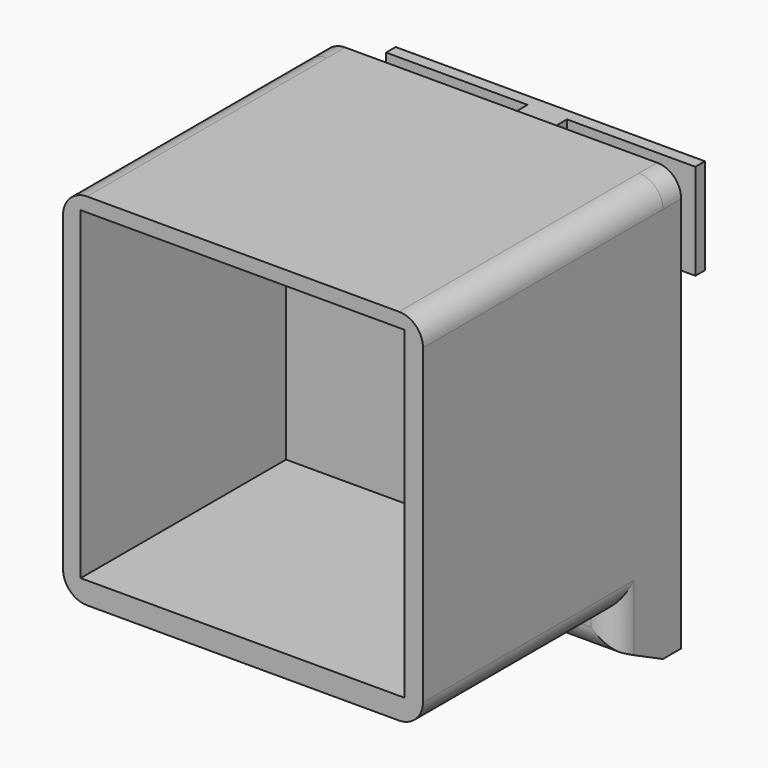
from build123d import *

# Parameters (mm, degrees)
F0_W      = 76.2
F0_H      = 76.2
F1_DEPTH  = 63.5
F2_W      = 68.58
F2_H      = 68.58
F3_DEPTH  = 54.356
F4_W      = 76.2
F4_H      = 12.7
F5_DEPTH  = 12.7
F7_DEPTH  = 81.788
F8_R      = 5.08
F9_W      = 66.04
F9_H      = 20.32
F10_DEPTH = 25.4
F12_DEPTH = 25.4
F13_W     = 8.3356503789
F13_H     = 20.32
F14_DEPTH = 17.78
F15_W     = 2.54
F15_H     = 20.32
F16_DEPTH = 27.178
F17_W     = 2.54
F17_H     = 20.32
F18_DEPTH = 29.972
F20_DEPTH = 4.826


with BuildPart() as f1:
    # F0 (on Front) → F1 (new body)
    with BuildSketch(Plane.XZ):
        with Locations((-1.4287489414, -3.7570823967)):
            Rectangle(F0_W, F0_H)
    extrude(amount=F1_DEPTH)

    # F2 (on face) → F3 (cut)
    with BuildSketch(Plane.XZ.offset(63.5)):
        with Locations((-1.5081233764, -2.9368781066)):
            Rectangle(F2_W, F2_H)
    extrude(amount=-F3_DEPTH, mode=Mode.SUBTRACT)

    # F4 (on face) → F5 (join)
    with BuildSketch(Plane(origin=(0, 0, -41.8570823967), x_dir=(1, 0, 0), z_dir=(0, 0, -1))):
        with Locations((-1.4287489414, 6.35)):
            Rectangle(F4_W, F4_H)
    extrude(amount=F5_DEPTH)

    # F6 (on face) → F7 (cut)
    with BuildSketch(Plane(origin=(-39.5287489414, 0, 0), x_dir=(0, -1, 0), z_dir=(-1, 0, 0))):
        Polygon((12.7, -48.2070823967), (0, -54.5570823967), (12.7, -54.5570823967), align=None)
    extrude(amount=-F7_DEPTH, mode=Mode.SUBTRACT)

    # F8
    f8_edges = [f1.edges().sort_by_distance(p)[0] for p in [
        (-39.528749, -38.1, -41.857082),
        (36.671251, -38.1, -41.857082),
        (-1.428749, -12.7, -48.207082),
        (-39.528749, -12.7, -45.032082),
        (36.671251, -12.7, -45.032082),
        (36.671251, -31.75, 34.342918),
        (-39.528749, -31.75, 34.342918),
    ]]
    fillet(f8_edges, radius=F8_R)

    # F9 (on face) → F10 (cut)
    with BuildSketch(Plane(origin=(0, 0, 0), x_dir=(-1, 0, 0), z_dir=(0, 1, 0))):
        with Locations((1.4287489414, 19.1029176033)):
            Rectangle(F9_W, F9_H)
    extrude(amount=-F10_DEPTH, mode=Mode.SUBTRACT)

    # F11 (on face) → F12 (join)
    with BuildSketch(Plane(origin=(0, 0, 29.2629176033), x_dir=(1, 0, 0), z_dir=(0, 0, -1))):
        Polygon((4.1656, 9.144), (-4.1700503789, 9.144), (-4.1700503789, 0), (0, 0), (4.1656, 0), align=None)
    extrude(amount=F12_DEPTH)

    # F13 (on face) → F14 (join)
    with BuildSketch(Plane(origin=(0, 0, 0), x_dir=(-1, 0, 0), z_dir=(0, 1, 0))):
        with Locations((0.0022251894, 19.1029176033)):
            Rectangle(F13_W, F13_H)
    extrude(amount=F14_DEPTH)

    # F15 (on face) → F16 (join)
    with BuildSketch(Plane.YZ.offset(4.1656)):
        with Locations((16.51, 19.1029176033)):
            Rectangle(F15_W, F15_H)
    extrude(amount=F16_DEPTH)

    # F17 (on face) → F18 (join)
    with BuildSketch(Plane(origin=(-4.1700503789, 0, 0), x_dir=(0, -1, 0), z_dir=(-1, 0, 0))):
        with Locations((-16.51, 19.1029176033)):
            Rectangle(F17_W, F17_H)
    extrude(amount=F18_DEPTH)

    # F19 (on face) → F20 (join)
    with BuildSketch(Plane(origin=(0, 0, 0), x_dir=(-1, 0, 0), z_dir=(0, 1, 0))):
        with BuildLine():
            ThreePointArc((39.5287489414, 29.2629176033), (38.0408513898, 32.8550200517), (34.4487489414, 34.3429176033))
            Line((34.4487489414, 34.3429176033), (-31.5912510586, 34.3429176033))
            ThreePointArc((-31.5912510586, 34.3429176033), (-35.183353507, 32.8550200517), (-36.6712510586, 29.2629176033))
            Line((-36.6712510586, 29.2629176033), (-36.6712510586, -54.5570823967))
            Line((-36.6712510586, -54.5570823967), (39.5287489414, -54.5570823967))
            Line((39.5287489414, -54.5570823967), (39.5287489414, 29.2629176033))
        make_face()
        Polygon((34.4487489414, 29.2629176033), (34.4487489414, 8.9429176033), (4.1700503789, 8.9429176033), (-4.1656, 8.9429176033), (-31.5912510586, 8.9429176033), (-31.5912510586, 29.2629176033), (-4.1656, 29.2629176033), (4.1700503789, 29.2629176033), align=None, mode=Mode.SUBTRACT)
    extrude(amount=F20_DEPTH)


solid = f1.part
